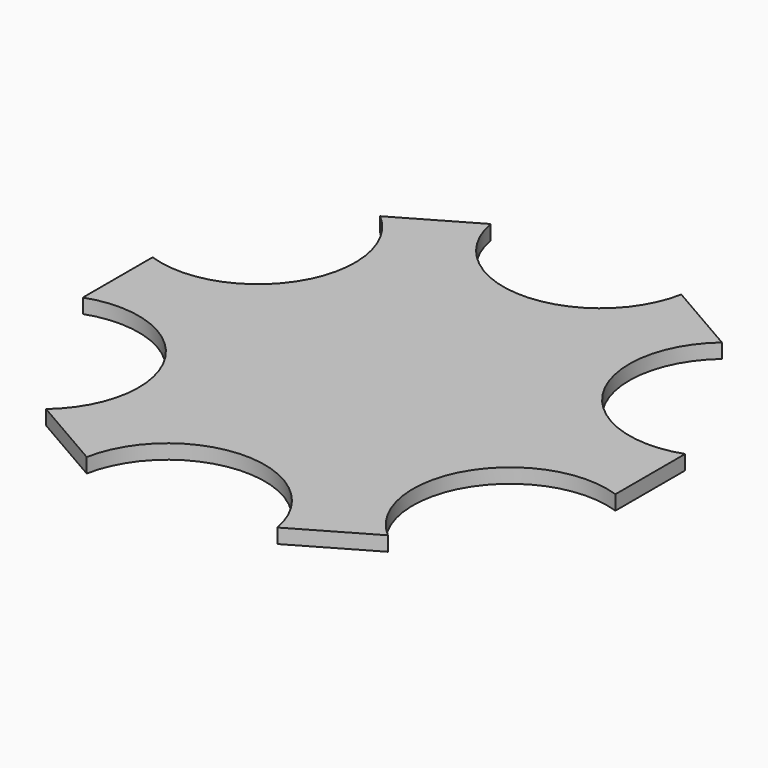
from build123d import *

# Parameters (mm, degrees)
F1_DEPTH = 6.6548


with BuildPart() as f1:
    # F0 (on Top) → F1 (new body)
    with BuildSketch(Plane.XY):
        with BuildLine():
            ThreePointArc((43.675769, 115.564873), (0, 79.375), (-43.675769, 115.564873))
            Line((-43.675769, 115.564873), (-78.244231, 95.606762))
            ThreePointArc((-78.244231, 95.606762), (-68.740766, 39.6875), (-121.92, 19.958111))
            Line((-121.92, 19.958111), (-121.92, -19.958111))
            ThreePointArc((-121.92, -19.958111), (-68.740766, -39.6875), (-78.244231, -95.606762))
            Line((-78.244231, -95.606762), (-43.675769, -115.564873))
            ThreePointArc((-43.675769, -115.564873), (0, -79.375), (43.675769, -115.564873))
            Line((43.675769, -115.564873), (78.244231, -95.606762))
            ThreePointArc((78.244231, -95.606762), (68.740766, -39.6875), (121.92, -19.958111))
            Line((121.92, -19.958111), (121.92, 19.958111))
            ThreePointArc((121.92, 19.958111), (68.740766, 39.6875), (78.244231, 95.606762))
            Line((78.244231, 95.606762), (43.675769, 115.564873))
        make_face()
    extrude(amount=F1_DEPTH)


solid = f1.part
